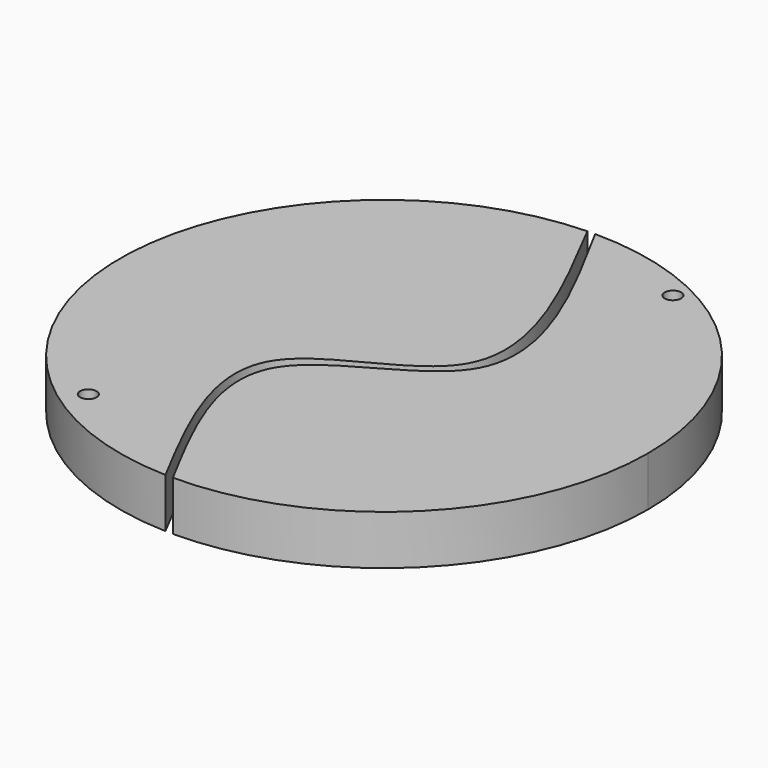
from build123d import *

# Parameters (mm, degrees)
F0_R     = 3.175
F1_DEPTH = 19.05


with BuildPart() as f1:
    # F0 (on Top) → F1 (new body)
    with BuildSketch(Plane.XY):
        with BuildLine():
            add(Edge.make_bspline(
                [(-2.9580479616, 101.5569296122), (15.5843384631, 65.9604681211), (48.7024471051, 2.305474415), (-48.5613333289, -14.8828659922), (-18.9403117953, -71.1167733007), (-2.9026756141, -101.5585273341)],
                knots=[0, 0, 0, 0, 0.3684374392, 0.6579810043, 1, 1, 1, 1], degree=3))
            ThreePointArc((-2.9580479616, 101.5569296122), (-101.5999962246, -0.0276976966), (-2.9026756141, -101.5585273341))
        make_face()
        with Locations((-53.8219884038, -75.0294551253)):
            Circle(F0_R, mode=Mode.SUBTRACT)
    extrude(amount=F1_DEPTH)


with BuildPart() as f1b:
    # F0 (on Top) → F1, piece 2 (new body)
    with BuildSketch(Plane.XY):
        with BuildLine():
            ThreePointArc((0, -101.6), (71.8420489686, -71.8420489686), (101.6, 0))
            ThreePointArc((101.6, 0), (71.8420489686, 71.8420489686), (0, 101.6))
            add(Edge.make_bspline(
                [(0, 101.6), (19.2480204904, 66.3102755707), (53.8947404226, 2.7882526491), (-44.7467021137, -17.9465343866), (-15.5426027285, -72.5432757842), (0, -101.6)],
                knots=[0, 0, 0, 0, 0.3689782792, 0.6641663285, 1, 1, 1, 1], degree=3))
        make_face()
        with Locations((43.2182513177, 84.9905461073)):
            Circle(F0_R, mode=Mode.SUBTRACT)
    extrude(amount=F1_DEPTH)


solid = Compound([f1.part, f1b.part])
